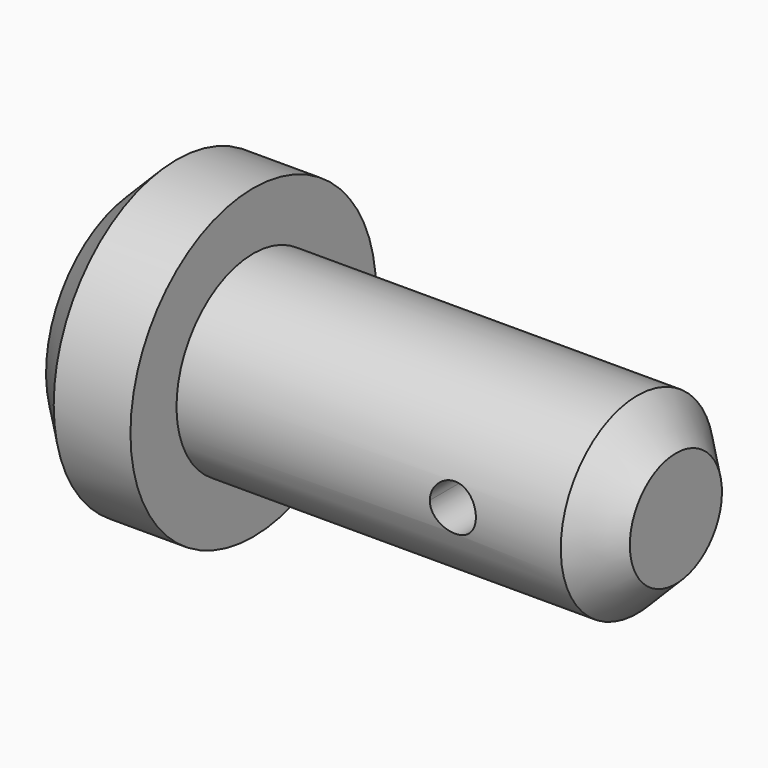
from build123d import *

# Parameters (mm, degrees)
F2_R     = 6
F3_DEPTH = 40.001
F4_R     = 6
F5_DEPTH = 40.001
F6_DEPTH = 40.001


with BuildPart() as f1:
    # F0 (on Front) → F1 (revolve)
    with BuildSketch(Plane.XZ):
        Polygon((-406.362363, 30), (-406.362363, 0), (-312.251694, 0), (-296.473032, 0), (-266.237753, 0), (-266.237753, 15), (-276.237753, 25), (-376.362363, 25), (-376.362363, 40), (-396.362363, 40), align=None)
    revolve(axis=Axis((-281.355392, 0, 0), (-1, 0, 0)))

    # F2 (on Front) → F3 (cut, through all)
    with BuildSketch(Plane.XZ):
        with Locations((-304.362363, 0)):
            Circle(F2_R)
    extrude(amount=-F3_DEPTH, mode=Mode.SUBTRACT)

    # F4 (on face) → F5 (cut, through all)
    with BuildSketch(Plane(origin=(0, 0, 0), x_dir=(-1, 0, 0), z_dir=(0, 1, 0))):
        with Locations((304.362363, 0)):
            Circle(F4_R)
    extrude(amount=-F5_DEPTH, mode=Mode.SUBTRACT)

    # F2 (on Front) → F6 (cut, through all)
    with BuildSketch(Plane.XZ):
        with Locations((-304.362363, 0)):
            Circle(F2_R)
    extrude(amount=F6_DEPTH, mode=Mode.SUBTRACT)


solid = f1.part
